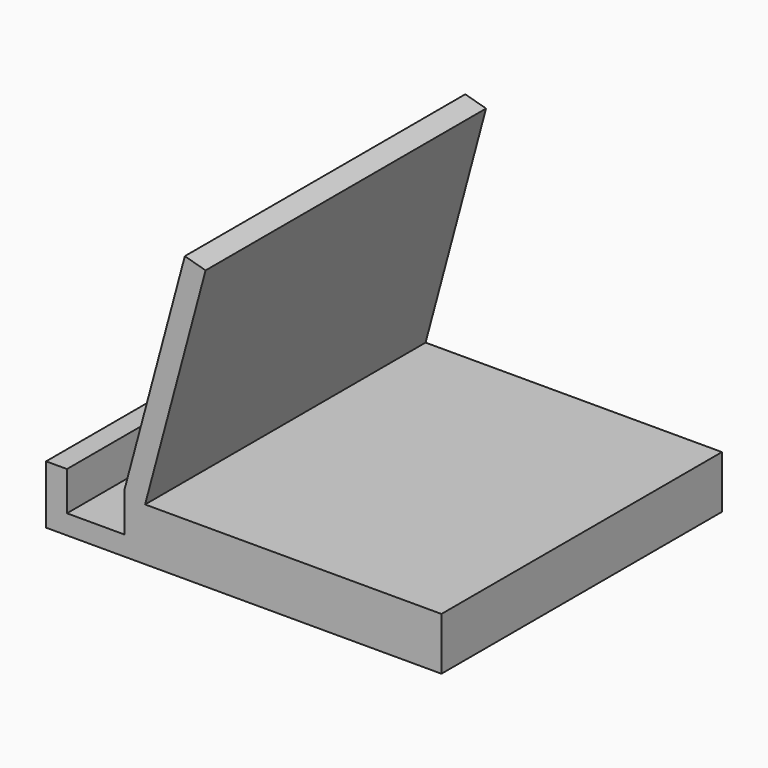
from build123d import *

# Parameters (mm, degrees)
PAD_DEPTH = 90


with BuildPart() as part:
    # Sketch → Pad (new body)
    with BuildSketch(Plane.XZ):
        Polygon((-39.462553, 5.478498), (-39.4624, -9.521502), (62.033083, -9.521502), (62.033083, 3.99388), (-14.042966, 3.99388), (1.486176, 61.94943), (-3.843011, 63.434039), (-19.372154, 5.478489), (-19.385466, -4.521511), (-34.101345, -4.521511), (-34.101345, 5.478498), align=None)
    extrude(amount=PAD_DEPTH)


solid = part.part
